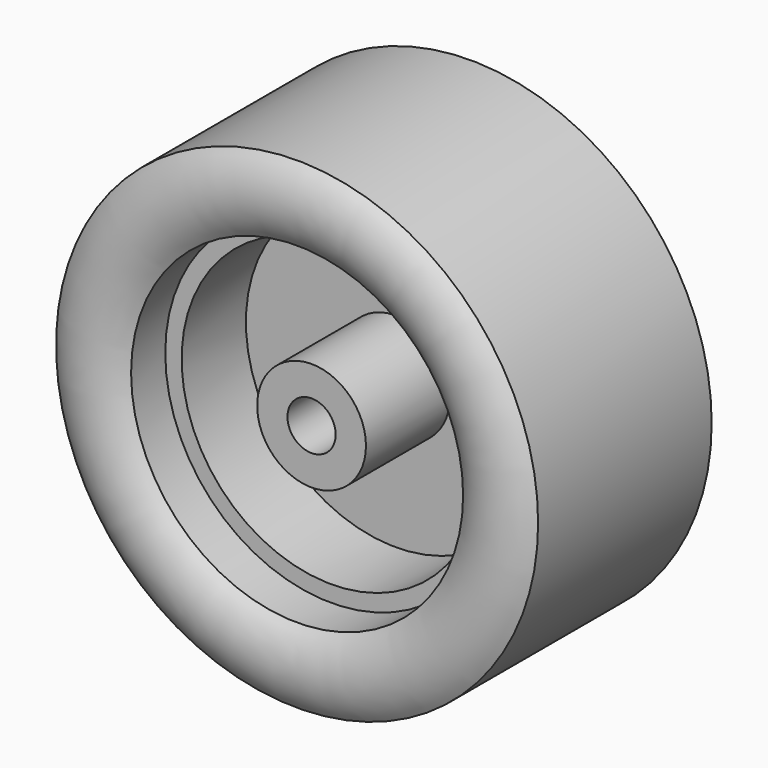
from build123d import *


with BuildPart() as f1:
    # F0 (on Top) → F1 (revolve)
    with BuildSketch(Plane.XY):
        with BuildLine():
            Line((3.805827, 6.538476), (2, 6.538476))
            Line((2, 6.538476), (2, -9.961463))
            Line((2, -9.961463), (4.513236, -9.961463))
            Line((4.513236, -9.961463), (4.513236, -1.251698))
            Line((4.513236, -1.251698), (12.416488, -1.251698))
            Line((12.416488, -1.251698), (12.416488, -7.917237))
            Line((12.416488, -7.917237), (13.775627, -7.917237))
            Line((13.775627, -7.917237), (13.775627, -11.461524))
            ThreePointArc((13.775627, -11.461524), (16.887813, -12.570455), (20, -11.461524))
            Line((20, -11.461524), (20, 6.538476))
            Line((20, 6.538476), (19.151396, 6.538476))
            Line((19.151396, 6.538476), (19.151396, -10.855305))
            Line((19.151396, -10.855305), (14.624231, -10.855305))
            Line((14.624231, -10.855305), (14.624231, -7.068633))
            Line((14.624231, -7.068633), (13.265092, -7.068633))
            Line((13.265092, -7.068633), (13.265092, -0.403094))
            Line((13.265092, -0.403094), (3.805827, -0.403094))
            Line((3.805827, -0.403094), (3.805827, 6.538476))
        make_face()
    revolve(axis=Axis((0, -1.518788, 0), (0, -1, 0)))


solid = f1.part
